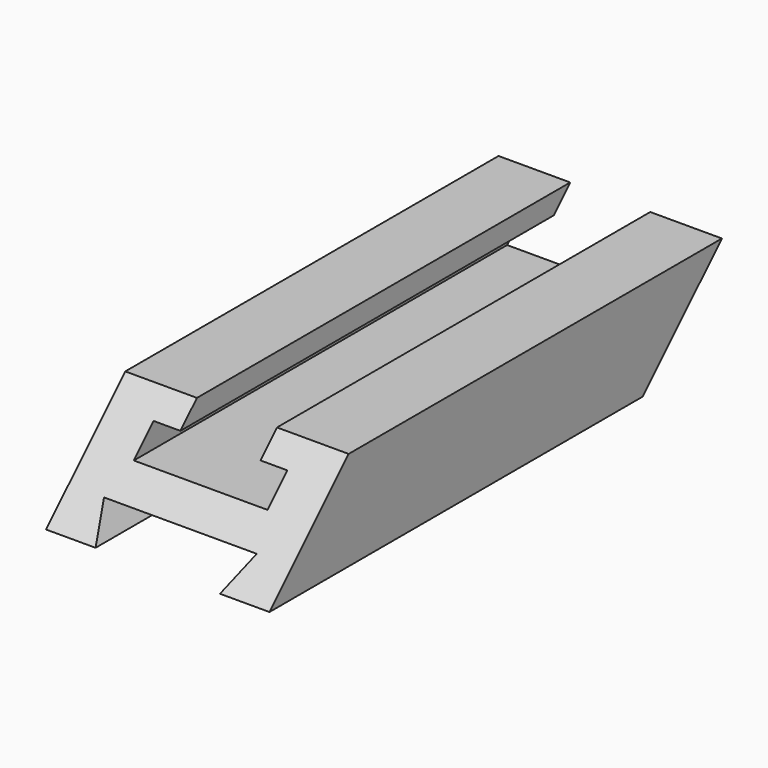
from build123d import *

# Parameters (mm, degrees)
F1_DEPTH = 10.033
F3_DEPTH = 76.2
F5_DEPTH = 76.2


with BuildPart() as f1:
    # F0 (on Right) → F1 (new body, symmetric)
    with BuildSketch(Plane.YZ):
        Polygon((16.51, -4.445), (25.4, 4.445), (-16.51, 4.445), (-25.4, -4.445), align=None)
    extrude(amount=F1_DEPTH, both=True)

    # F2 (on Front) → F3 (cut, symmetric)
    with BuildSketch(Plane.XZ):
        Polygon((3.5941, 7.676974), (-3.5941, 7.676974), (-3.5941, 2.5908), (-6.00075, 2.5908), (-6.00075, 0.3683), (6.00075, 0.3683), (6.00075, 2.5908), (3.5941, 2.5908), align=None)
    extrude(amount=F3_DEPTH, both=True, mode=Mode.SUBTRACT)

    # F4 (on Front) → F5 (cut, symmetric)
    with BuildSketch(Plane.XZ):
        Polygon((-6.858, -1.905), (-5.588, -4.445), (5.588, -4.445), (6.858, -1.905), align=None)
    extrude(amount=F5_DEPTH, both=True, mode=Mode.SUBTRACT)


solid = f1.part
